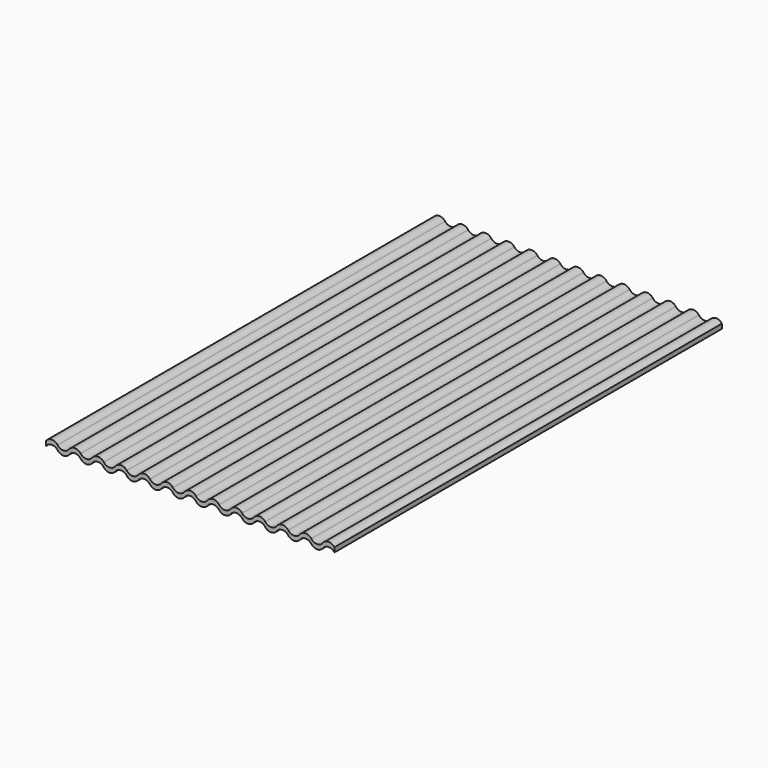
from build123d import *

# Parameters (mm, degrees)
F1_DEPTH = 84


with BuildPart() as f1:
    # F0 (on Front) → F1 (new body)
    with BuildSketch(Plane.XZ):
        with BuildLine():
            ThreePointArc((-21, -0.4), (-20, 0.1), (-19, -0.4))
            ThreePointArc((-19, -0.4), (-18, -0.9), (-17, -0.4))
            ThreePointArc((-17, -0.4), (-16, 0.1), (-15, -0.4))
            ThreePointArc((-15, -0.4), (-14, -0.9), (-13, -0.4))
            ThreePointArc((-13, -0.4), (-12, 0.1), (-11, -0.4))
            ThreePointArc((-11, -0.4), (-10, -0.9), (-9, -0.4))
            ThreePointArc((-9, -0.4), (-8, 0.1), (-7, -0.4))
            ThreePointArc((-7, -0.4), (-6, -0.9), (-5, -0.4))
            ThreePointArc((-5, -0.4), (-4, 0.1), (-3, -0.4))
            ThreePointArc((-3, -0.4), (-2, -0.9), (-1, -0.4))
            ThreePointArc((-1, -0.4), (0, 0.1), (1, -0.4))
            ThreePointArc((1, -0.4), (2, -0.9), (3, -0.4))
            ThreePointArc((3, -0.4), (4, 0.1), (5, -0.4))
            ThreePointArc((5, -0.4), (6, -0.9), (7, -0.4))
            ThreePointArc((7, -0.4), (8, 0.1), (9, -0.4))
            ThreePointArc((9, -0.4), (10, -0.9), (11, -0.4))
            ThreePointArc((11, -0.4), (12, 0.1), (13, -0.4))
            ThreePointArc((13, -0.4), (14, -0.9), (15, -0.4))
            ThreePointArc((15, -0.4), (16, 0.1), (17, -0.4))
            ThreePointArc((17, -0.4), (18, -0.9), (19, -0.4))
            ThreePointArc((19, -0.4), (20, 0.1), (21, -0.4))
            ThreePointArc((21, -0.4), (22, -0.9), (23, -0.4))
            ThreePointArc((23, -0.4), (24, 0.1), (25, -0.4))
            Line((25, -0.4), (25, 0.4))
            ThreePointArc((25, 0.4), (24, 0.9), (23, 0.4))
            ThreePointArc((23, 0.4), (22, -0.1), (21, 0.4))
            ThreePointArc((21, 0.4), (20, 0.9), (19, 0.4))
            ThreePointArc((19, 0.4), (18, -0.1), (17, 0.4))
            ThreePointArc((17, 0.4), (16, 0.9), (15, 0.4))
            ThreePointArc((15, 0.4), (14, -0.1), (13, 0.4))
            ThreePointArc((13, 0.4), (12, 0.9), (11, 0.4))
            ThreePointArc((11, 0.4), (10, -0.1), (9, 0.4))
            ThreePointArc((9, 0.4), (8, 0.9), (7, 0.4))
            ThreePointArc((7, 0.4), (6, -0.1), (5, 0.4))
            ThreePointArc((5, 0.4), (4, 0.9), (3, 0.4))
            ThreePointArc((3, 0.4), (2, -0.1), (1, 0.4))
            ThreePointArc((1, 0.4), (0, 0.9), (-1, 0.4))
            ThreePointArc((-1, 0.4), (-2, -0.1), (-3, 0.4))
            ThreePointArc((-3, 0.4), (-4, 0.9), (-5, 0.4))
            ThreePointArc((-5, 0.4), (-6, -0.1), (-7, 0.4))
            ThreePointArc((-7, 0.4), (-8, 0.9), (-9, 0.4))
            ThreePointArc((-9, 0.4), (-10, -0.1), (-11, 0.4))
            ThreePointArc((-11, 0.4), (-12, 0.9), (-13, 0.4))
            ThreePointArc((-13, 0.4), (-14, -0.1), (-15, 0.4))
            ThreePointArc((-15, 0.4), (-16, 0.9), (-17, 0.4))
            ThreePointArc((-17, 0.4), (-18, -0.1), (-19, 0.4))
            ThreePointArc((-19, 0.4), (-20, 0.9), (-21, 0.4))
            ThreePointArc((-21, 0.4), (-22, -0.1), (-23, 0.4))
            ThreePointArc((-23, 0.4), (-24, 0.9), (-25, 0.4))
            Line((-25, 0.4), (-25, -0.4))
            ThreePointArc((-25, -0.4), (-24, 0.1), (-23, -0.4))
            ThreePointArc((-23, -0.4), (-22, -0.9), (-21, -0.4))
        make_face()
    extrude(amount=F1_DEPTH)


solid = f1.part
